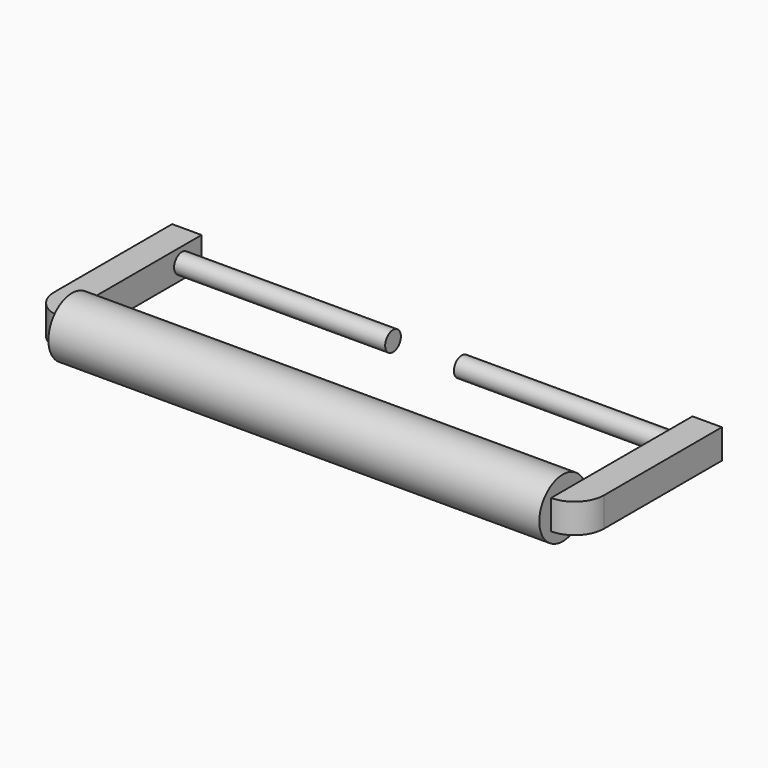
from build123d import *

# Parameters (mm, degrees)
F0_R      = 15
F1_DEPTH  = 125
F2_W      = 15
F2_H      = 15
F3_ANGLE  = 90
F5_W      = 15
F5_H      = 15
F6_DEPTH  = 75
F8_R      = 5
F9_DEPTH  = 122.5
F10_R     = 5
F11_DEPTH = 122.5


with BuildPart() as f1:
    # F0 (on Right) → F1 (new body, symmetric)
    with BuildSketch(Plane.YZ):
        Circle(F0_R)
    extrude(amount=F1_DEPTH, both=True)

    # F4: F3 across plane


with BuildPart() as f3:
    # F2 (on face) → F3 (revolve)
    with BuildSketch(Plane.YZ.offset(125)):
        Rectangle(F2_W, F2_H)
    revolve(axis=Axis((125, 7.5, 0), (0, 0, 1)), revolution_arc=F3_ANGLE)


with BuildPart() as f1_1:
    add(f1.part)
    add(f3.part.mirror(Plane.YZ))


    add(f3.part)  # F6 merges F3
    # F5 (on face) → F6 (join)
    with BuildSketch(Plane(origin=(0, 7.5, 0), x_dir=(-1, 0, 0), z_dir=(0, 1, 0))):
        with Locations((-132.5, 0)):
            Rectangle(F5_W, F5_H)
    extrude(amount=F6_DEPTH)

    # F7: F1 across plane


with BuildPart() as f1_2:
    add(f1_1.part)
    add(f1_1.part.mirror(Plane.YZ))

    # F8 (on face) → F9 (join)
    with BuildSketch(Plane(origin=(-140, 0, 0), x_dir=(0, -1, 0), z_dir=(-1, 0, 0))):
        with Locations((-70, 0)):
            Circle(F8_R)
    extrude(amount=-F9_DEPTH)

    # F10 (on face) → F11 (join)
    with BuildSketch(Plane.YZ.offset(140)):
        with Locations((70, 0)):
            Circle(F10_R)
    extrude(amount=-F11_DEPTH)


solid = f1_2.part
